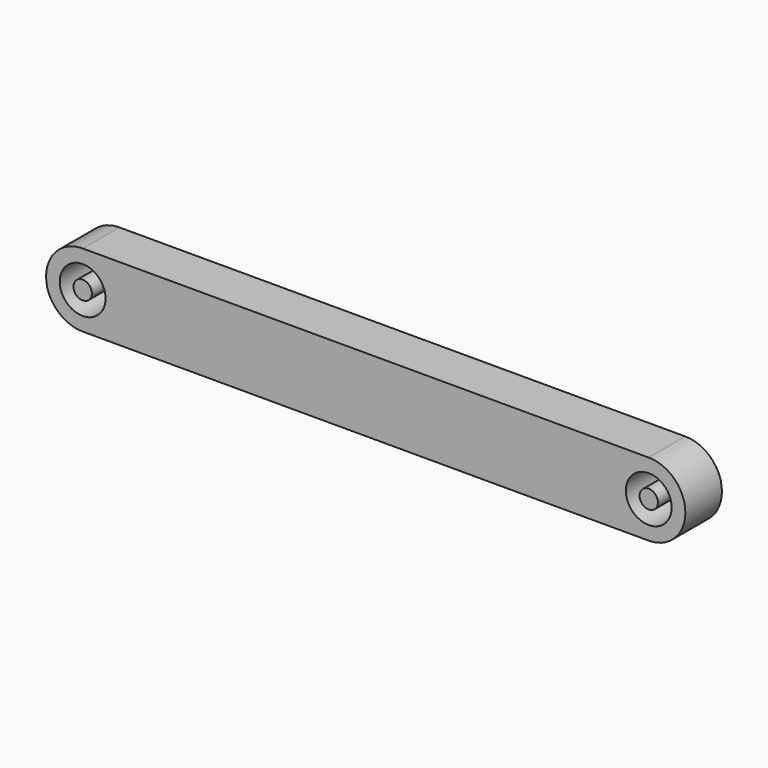
from build123d import *

# Parameters (mm, degrees)
F0_R     = 2.5019
F0_R_2   = 1.0033
F1_DEPTH = 2.5


with BuildPart() as f1:
    # F0 (on Front) → F1 (new body, symmetric)
    with BuildSketch(Plane.XZ):
        with BuildLine():
            Line((61.8998, 4.0005), (0, 4.0005))
            ThreePointArc((0, 4.0005), (-4.0005, 0), (0, -4.0005))
            Line((0, -4.0005), (61.8998, -4.0005))
            ThreePointArc((61.8998, -4.0005), (65.9003, 0), (61.8998, 4.0005))
        make_face()
        Circle(F0_R, mode=Mode.SUBTRACT)
        with Locations((61.8998, 0)):
            Circle(F0_R, mode=Mode.SUBTRACT)
        Circle(F0_R_2)
        with Locations((61.8998, 0)):
            Circle(F0_R_2)
    extrude(amount=F1_DEPTH, both=True)


solid = f1.part
